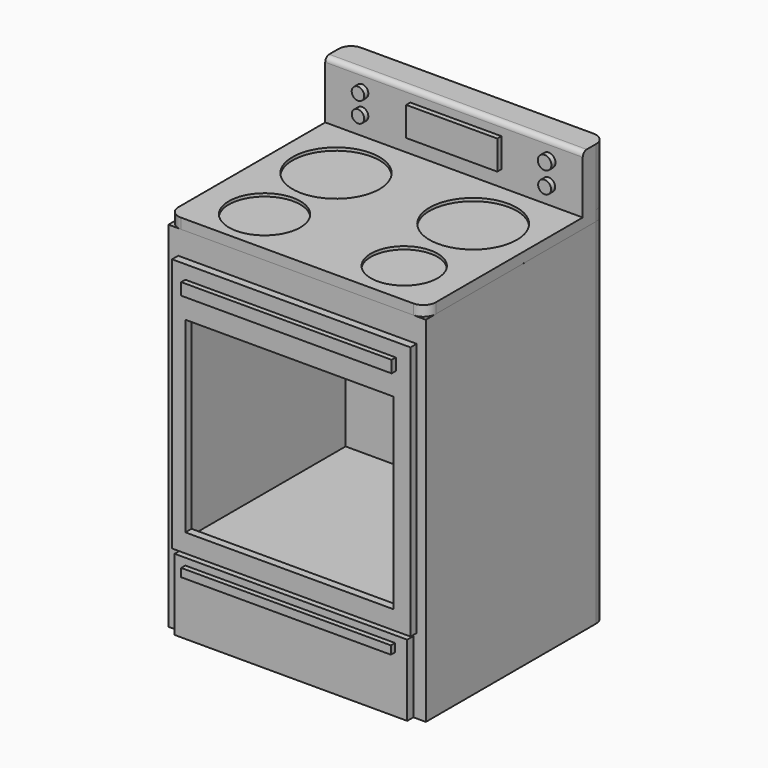
from build123d import *

# Parameters (mm, degrees)
F0_W      = 609.6
F0_H      = 533.4
F1_DEPTH  = 838.2
F2_W      = 609.6
F2_H      = 533.4
F3_DEPTH  = 24.384
F4_R      = 29.434092
F5_R      = 29.434092
F6_R      = 102.925841
F6_R_2    = 103.448078
F6_R_3    = 84.502695
F6_R_4    = 78.986746
F7_DEPTH  = 7.0104
F8_W      = 550.731816
F8_H      = 573.806033
F9_DEPTH  = 487.68
F8_H_2    = 169.245765
F10_DEPTH = 18.288
F11_W     = 564.545611
F11_H     = 602.734446
F12_DEPTH = 18.288
F13_W     = 498.180225
F13_H     = 28.366148
F14_DEPTH = 12.192
F15_W     = 492.861583
F15_H     = 443.220898
F16_DEPTH = 70.104
F17_W     = 496.407345
F17_H     = 19.501731
F18_DEPTH = 12.192
F20_DEPTH = 137.16
F21_R     = 11.773637
F22_R     = 14.809977
F22_R_2   = 14.740075
F22_W     = 215.516463
F22_H     = 68.965257
F22_R_3   = 16.063656
F22_R_4   = 15.273158
F23_DEPTH = 12.192


with BuildPart() as f1:
    # F0 (on Top) → F1 (new body)
    with BuildSketch(Plane.XY):
        with Locations((304.8, -266.7)):
            Rectangle(F0_W, F0_H)
    extrude(amount=F1_DEPTH)

    # F5
    f5_edges = [f1.edges().sort_by_distance(p)[0] for p in [
        (609.6, 0, 419.1),
        (0, 0, 419.1),
    ]]
    fillet(f5_edges, radius=F5_R)

    # F8 (on face) → F9 (cut)
    with BuildSketch(Plane.XZ.offset(533.4)):
        with Locations((304.8, 474.136419)):
            Rectangle(F8_W, F8_H)
    extrude(amount=-F9_DEPTH, mode=Mode.SUBTRACT)

    # F8 (on face) → F10 (join)
    with BuildSketch(Plane.XZ.offset(533.4)):
        with Locations((304.8, 84.622883)):
            Rectangle(F8_W, F8_H_2)
    extrude(amount=F10_DEPTH)

    # F11 (on face) → F12 (join)
    with BuildSketch(Plane.XZ.offset(533.4)):
        with Locations((305.642138, 479.616463)):
            Rectangle(F11_W, F11_H)
    extrude(amount=F12_DEPTH)

    # F13 (on face) → F14 (join)
    with BuildSketch(Plane.XZ.offset(551.688)):
        with Locations((303.930543, 734.472066)):
            Rectangle(F13_W, F13_H)
    extrude(amount=F14_DEPTH)

    # F15 (on face) → F16 (cut)
    with BuildSketch(Plane.XZ.offset(551.688)):
        with Locations((301.271222, 443.719186)):
            Rectangle(F15_W, F15_H)
    extrude(amount=-F16_DEPTH, mode=Mode.SUBTRACT)

    # F17 (on face) → F18 (join)
    with BuildSketch(Plane.XZ.offset(551.688)):
        with Locations((303.044103, 143.215425)):
            Rectangle(F17_W, F17_H)
    extrude(amount=F18_DEPTH)


with BuildPart() as f3:
    # F2 (on face) → F3 (new body)
    with BuildSketch(Plane.XY.offset(838.2)):
        with Locations((304.8, -266.7)):
            Rectangle(F2_W, F2_H)
    extrude(amount=F3_DEPTH)

    # F4
    f4_edges = [f3.edges().sort_by_distance(p)[0] for p in [
        (609.6, -533.4, 850.392),
        (0, -533.4, 850.392),
        (0, 0, 850.392),
        (609.6, 0, 850.392),
    ]]
    fillet(f4_edges, radius=F4_R)

    # F6 (on face) → F7 (cut)
    with BuildSketch(Plane.XY.offset(862.584)):
        with Locations((142.304897, -215.167657)):
            Circle(F6_R)
        with Locations((467.016995, -215.167657)):
            Circle(F6_R_2)
        with Locations((142.304897, -426.580936)):
            Circle(F6_R_3)
        with Locations((472.857147, -426.580936)):
            Circle(F6_R_4)
    extrude(amount=-F7_DEPTH, mode=Mode.SUBTRACT)

    # F19 (on face) → F20 (join)
    with BuildSketch(Plane.XY.offset(862.584)):
        with BuildLine():
            Line((580.165908, 0), (29.434092, 0))
            ThreePointArc((29.434092, 0), (8.621046, -8.621046), (0, -29.434092))
            Line((0, -29.434092), (0, -69.170699))
            Line((0, -69.170699), (609.6, -69.170699))
            Line((609.6, -69.170699), (609.6, -29.434092))
            ThreePointArc((609.6, -29.434092), (600.978954, -8.621046), (580.165908, 0))
        make_face()
    extrude(amount=F20_DEPTH)

    # F21
    f21_edges = [f3.edges().sort_by_distance(p)[0] for p in [
        (304.8, -69.170699, 999.744),
    ]]
    fillet(f21_edges, radius=F21_R)

    # F22 (on face) → F23 (join)
    with BuildSketch(Plane.XZ.offset(69.170699)):
        with Locations((87.252453, 955.83111)):
            Circle(F22_R)
        with Locations((87.252453, 908.417523)):
            Circle(F22_R_2)
        with Locations((309.234403, 934.997886)):
            Rectangle(F22_W, F22_H)
        with Locations((529.061198, 955.83111)):
            Circle(F22_R_3)
        with Locations((529.061198, 904.825568)):
            Circle(F22_R_4)
    extrude(amount=F23_DEPTH)


solid = Compound([f1.part, f3.part])
